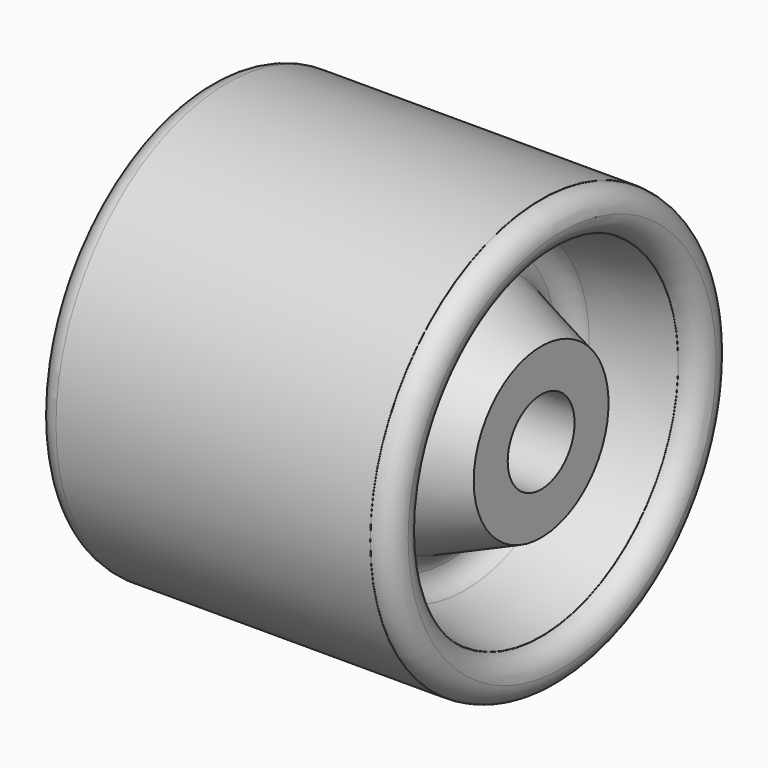
from build123d import *


with BuildPart() as f1:
    # F0 (on Top) → F1 (revolve)
    with BuildSketch(Plane.XY):
        with BuildLine():
            Line((42.0233262479, -9.8431953512), (5.0233262479, -9.8431953512))
            Line((5.0233262479, -9.8431953512), (5.0233262479, -50.3247450109))
            Line((5.0233262479, -50.3247450109), (42.0233262479, -50.3247450109))
            Line((42.0233262479, -50.3247450109), (42.0233262479, -50.261097271))
            ThreePointArc((42.0233262479, -50.261097271), (37.0869739878, -45.3247450109), (42.0233262479, -40.3883927507))
            Line((42.0233262479, -40.3883927507), (42.0233262479, -40.3247450109))
            Line((42.0233262479, -40.3247450109), (24.0135168605, -36.6635738161))
            ThreePointArc((24.0135168605, -36.6635738161), (21.2097449971, -35.0135990463), (20.0146041098, -31.9878443202))
            ThreePointArc((20.0146041098, -31.9878443202), (20.921415709, -29.3331984756), (23.1150923151, -27.5847034699))
            Line((23.1150923151, -27.5847034699), (42.0233262479, -19.8431953512))
            Line((42.0233262479, -19.8431953512), (42.0233262479, -9.8431953512))
        make_face()
        with BuildLine():
            ThreePointArc((20.0095816749, -31.7637927102), (20.0108374413, -31.8758466579), (20.0146041098, -31.9878443202))
            ThreePointArc((20.0146041098, -31.9878443202), (20.0108374413, -32.0998419825), (20.0095816749, -32.2118959303))
            Line((20.0095816749, -32.2118959303), (20.0095816749, -31.7637927102))
        make_face(mode=Mode.SUBTRACT)
        with BuildLine():
            Line((5.0233262479, -9.8431953512), (-31.9766737521, -9.8431953512))
            Line((-31.9766737521, -9.8431953512), (-31.9766737521, -19.8431953512))
            Line((-31.9766737521, -19.8431953512), (-11.8207803345, -26.4556933234))
            ThreePointArc((-11.8207803345, -26.4556933234), (-9.3301255697, -28.2733916373), (-8.3793867379, -31.2065612525))
            Line((-8.3793867379, -31.2065612525), (-8.3793867379, -32.3795122139))
            ThreePointArc((-8.3793867379, -32.3795122139), (-9.5824836696, -35.6327455424), (-12.6127975737, -37.3203968567))
            Line((-12.6127975737, -37.3203968567), (-31.9766737521, -40.3247450109))
            Line((-31.9766737521, -40.3247450109), (-31.9766737521, -40.3728301762))
            ThreePointArc((-31.9766737521, -40.3728301762), (-28.4751411926, -41.8232124514), (-27.0247589174, -45.3247450109))
            ThreePointArc((-27.0247589174, -45.3247450109), (-28.4751411926, -48.8262775703), (-31.9766737521, -50.2766598455))
            Line((-31.9766737521, -50.2766598455), (-31.9766737521, -50.3247450109))
            Line((-31.9766737521, -50.3247450109), (5.0233262479, -50.3247450109))
            Line((5.0233262479, -50.3247450109), (5.0233262479, -9.8431953512))
        make_face()
        with BuildLine():
            ThreePointArc((-31.9766737521, -40.3728301762), (-36.9285885867, -45.3247450109), (-31.9766737521, -50.2766598455))
            Line((-31.9766737521, -50.2766598455), (-31.9766737521, -40.3728301762))
        make_face()
        with BuildLine():
            Line((-31.9766737521, -40.3728301762), (-31.9766737521, -50.2766598455))
            ThreePointArc((-31.9766737521, -50.2766598455), (-28.4751411926, -48.8262775703), (-27.0247589174, -45.3247450109))
            ThreePointArc((-27.0247589174, -45.3247450109), (-28.4751411926, -41.8232124514), (-31.9766737521, -40.3728301762))
        make_face()
        with BuildLine():
            ThreePointArc((42.0233262479, -40.3883927507), (37.0869739878, -45.3247450109), (42.0233262479, -50.261097271))
            Line((42.0233262479, -50.261097271), (42.0233262479, -40.3883927507))
        make_face()
        with BuildLine():
            Line((42.0233262479, -40.3883927507), (42.0233262479, -50.261097271))
            ThreePointArc((42.0233262479, -50.261097271), (45.5138544054, -48.8152731683), (46.959678508, -45.3247450109))
            ThreePointArc((46.959678508, -45.3247450109), (45.5138544054, -41.8342168534), (42.0233262479, -40.3883927507))
        make_face()
        with BuildLine():
            ThreePointArc((20.0095816749, -32.2118959303), (20.0108374413, -32.0998419825), (20.0146041098, -31.9878443202))
            ThreePointArc((20.0146041098, -31.9878443202), (20.0108374413, -31.8758466579), (20.0095816749, -31.7637927102))
            Line((20.0095816749, -31.7637927102), (20.0095816749, -32.2118959303))
        make_face()
    revolve(axis=Axis((2.2840499878, 0, 0), (1, 0, 0)))


solid = f1.part
